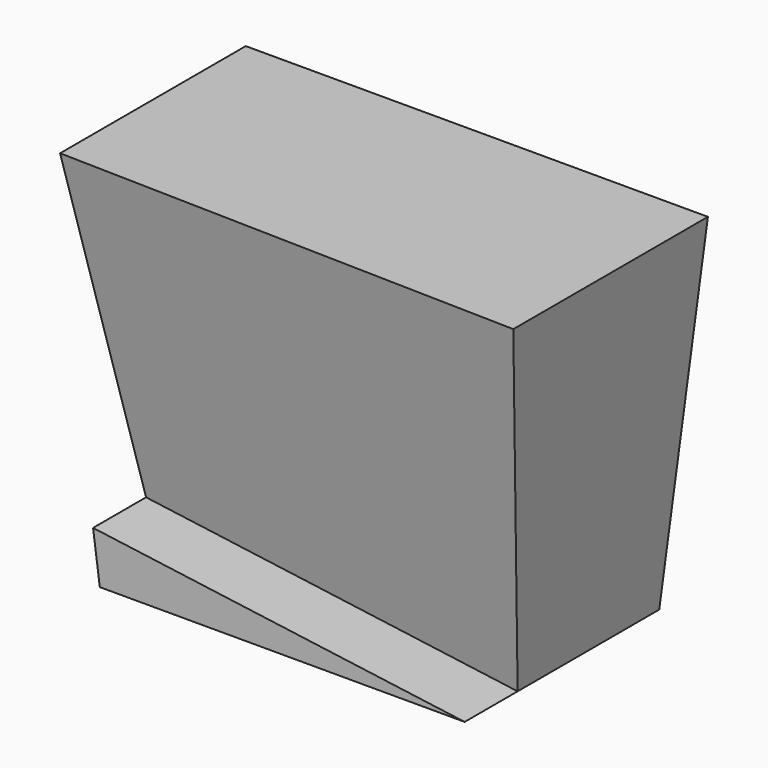
from build123d import *

# Parameters (mm, degrees)
F1_DEPTH = 127
F3_DEPTH = 241.3


with BuildPart() as f1:
    # F0 (on Front) → F1 (new body)
    with BuildSketch(Plane.XZ):
        Polygon((155.0226134762, 76.1641544679), (-86.2773865238, 76.1641544679), (-60.8773865238, -112.634918623), (129.6226134762, -112.634918623), align=None)
    extrude(amount=-F1_DEPTH)

    # F2 (on face) → F3 (cut)
    with BuildSketch(Plane(origin=(142.2021087352, 0, -19.131097959), x_dir=(0, 1, 0), z_dir=(0.9910712498, 0, -0.1333333333))):
        Polygon((34.5675349236, -94.3462144431), (0, 96.1537855569), (0, -94.3462144431), align=None)
    extrude(amount=-F3_DEPTH, mode=Mode.SUBTRACT)


solid = f1.part
